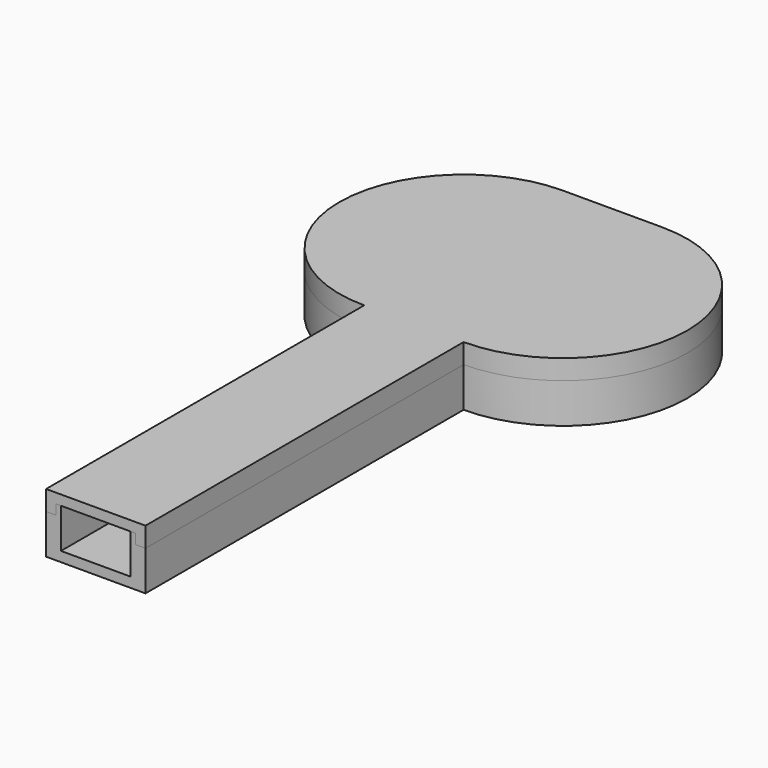
from build123d import *

# Parameters (mm, degrees)
PAD_DEPTH       = 8
PAD001_DEPTH    = 10
POCKET_DEPTH    = 8
PAD002_DEPTH    = 4
POCKET001_DEPTH = 2
PAD003_DEPTH    = 8
PAD004_DEPTH    = 10
POCKET002_DEPTH = 8


with BuildPart() as body_groove:
    # Sketch → Pad (new body)
    with BuildSketch(Plane.XY):
        with BuildLine():
            ThreePointArc((-10, 50), (-35, 25), (-10, 0))
            Line((-10, -80), (-10, 0))
            Line((10, -80), (-10, -80))
            Line((10, 0), (10, -80))
            ThreePointArc((10, 0), (35, 25), (10, 50))
            Line((-10, 50), (10, 50))
        make_face()
    extrude(amount=PAD_DEPTH)

    # Sketch001 → Pad001 (join)
    with BuildSketch(Plane.XY):
        with BuildLine():
            ThreePointArc((-10, 47.912878), (-32.978209, 23.91193), (-8, 2))
            Line((-8, -80), (-8, 2))
            Line((8, -80), (-8, -80))
            Line((8, 2), (8, -80))
            ThreePointArc((8, 2), (32.978209, 23.91193), (10, 47.912878))
            Line((-10, 47.912878), (10, 47.912878))
        make_face()
    extrude(amount=PAD001_DEPTH)

    # Sketch002 → Pocket (cut)
    with BuildSketch(Plane.XY.offset(10)):
        with BuildLine():
            ThreePointArc((-10, 46.794495), (-31.948564, 23.290979), (-7, 3))
            Line((-7, -80), (-7, 3))
            Line((7, -80), (-7, -80))
            Line((7, 3), (7, -80))
            ThreePointArc((7, 3), (31.948564, 23.290979), (10, 46.794495))
            Line((-10, 46.794495), (10, 46.794495))
        make_face()
    extrude(amount=-POCKET_DEPTH, mode=Mode.SUBTRACT)


with BuildPart() as cover:
    # Sketch003 → Pad002 (new body)
    with BuildSketch(Plane.XY.offset(8)):
        with BuildLine():
            ThreePointArc((-10, 50), (-35, 25), (-10, 0))
            Line((-10, -80), (-10, 0))
            Line((10, -80), (-10, -80))
            Line((10, 0), (10, -80))
            ThreePointArc((10, 0), (35, 25), (10, 50))
            Line((-10, 50), (10, 50))
        make_face()
    extrude(amount=PAD002_DEPTH)

    # Sketch004 → Pocket001 (cut)
    with BuildSketch(Plane.XY.offset(8)):
        with BuildLine():
            ThreePointArc((-10, 46.794495), (-31.948564, 23.290979), (-7, 3))
            Line((-7, -80), (-7, 3))
            Line((7, -80), (-7, -80))
            Line((7, 3), (7, -80))
            ThreePointArc((7, 3), (31.948564, 23.290979), (10, 46.794495))
            Line((-10, 46.794495), (10, 46.794495))
        make_face()
    extrude(amount=POCKET001_DEPTH, mode=Mode.SUBTRACT)

    # Cut: cut Body_groove
    add(body_groove.part, mode=Mode.SUBTRACT)


with BuildPart() as body:
    # Sketch005 → Pad003 (new body)
    with BuildSketch(Plane.XY):
        with BuildLine():
            ThreePointArc((-10, 50), (-35, 25), (-10, 0))
            Line((-10, -80), (-10, 0))
            Line((10, -80), (-10, -80))
            Line((10, 0), (10, -80))
            ThreePointArc((10, 0), (35, 25), (10, 50))
            Line((-10, 50), (10, 50))
        make_face()
    extrude(amount=PAD003_DEPTH)

    # Sketch007 → Pad004 (join)
    with BuildSketch(Plane.XY):
        with BuildLine():
            ThreePointArc((-10, 47.912878), (-32.978209, 23.91193), (-8, 2))
            Line((-8, -80), (-8, 2))
            Line((8, -80), (-8, -80))
            Line((8, 2), (8, -80))
            ThreePointArc((8, 2), (32.978209, 23.91193), (10, 47.912878))
            Line((-10, 47.912878), (10, 47.912878))
        make_face()
    extrude(amount=PAD004_DEPTH)

    # Sketch006 → Pocket002 (cut)
    with BuildSketch(Plane.XY.offset(10)):
        with BuildLine():
            ThreePointArc((-10, 46.794495), (-31.948564, 23.290979), (-7, 3))
            Line((-7, -80), (-7, 3))
            Line((7, -80), (-7, -80))
            Line((7, 3), (7, -80))
            ThreePointArc((7, 3), (31.948564, 23.290979), (10, 46.794495))
            Line((-10, 46.794495), (10, 46.794495))
        make_face()
    extrude(amount=-POCKET002_DEPTH, mode=Mode.SUBTRACT)


solid = Compound([cover.part, body.part])
